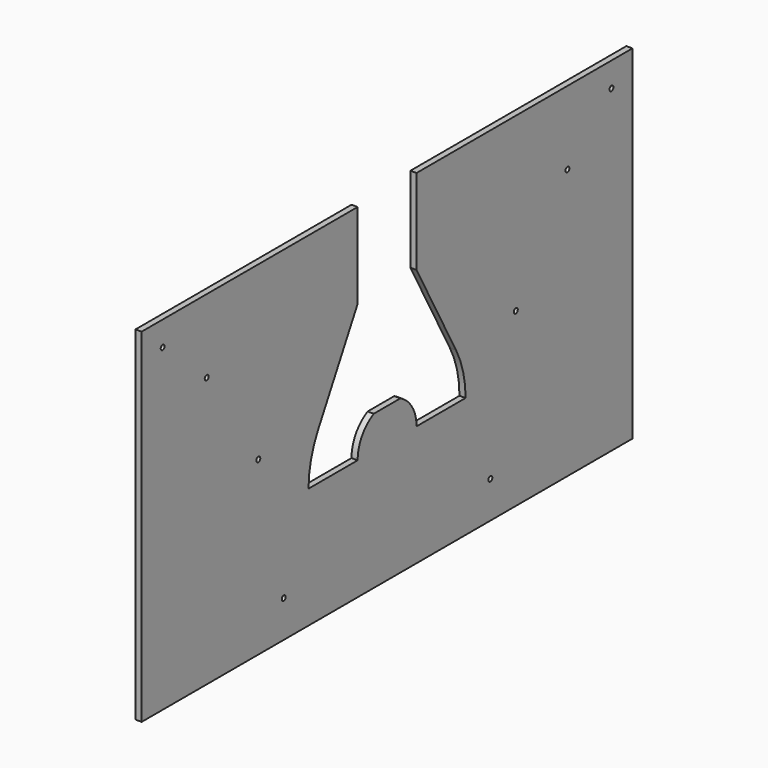
from build123d import *

# Parameters (mm, degrees)
F0_R     = 2.5527
F1_DEPTH = 6.35


with BuildPart() as f1:
    # F0 (on Right) → F1 (new body)
    with BuildSketch(Plane.YZ):
        with BuildLine():
            Line((-507.338013, 203.26635), (-507.338013, -152.33365))
            Line((-507.338013, -152.33365), (127.661987, -152.33365))
            Line((127.661987, -152.33365), (127.661987, 203.26635))
            Line((127.661987, 203.26635), (-151.738013, 203.26635))
            Line((-151.738013, 203.26635), (-151.738013, 114.932835))
            Line((-151.738013, 114.932835), (-100.606039, 21.017333))
            ThreePointArc((-100.606039, 21.017333), (-91.378558, -2.498882), (-88.238013, -27.56471))
            Line((-88.238013, -27.56471), (-151.738013, -27.56471))
            ThreePointArc((-151.738013, -27.56471), (-157.371875, -7.625807), (-172.607297, 6.41635))
            Line((-172.607297, 6.41635), (-207.068729, 6.41635))
            ThreePointArc((-207.068729, 6.41635), (-222.304151, -7.625807), (-227.938013, -27.56471))
            Line((-227.938013, -27.56471), (-291.438013, -27.56471))
            ThreePointArc((-291.438013, -27.56471), (-288.297468, -2.498882), (-279.069987, 21.017333))
            Line((-279.069987, 21.017333), (-227.938013, 114.932835))
            Line((-227.938013, 114.932835), (-227.938013, 203.26635))
            Line((-227.938013, 203.26635), (-507.338013, 203.26635))
        make_face()
        with Locations((-323.514741, -114.23365)):
            Circle(F0_R, mode=Mode.SUBTRACT)
        with Locations((-356.405224, 25.46635)):
            Circle(F0_R, mode=Mode.SUBTRACT)
        with Locations((-56.161285, -114.23365)):
            Circle(F0_R, mode=Mode.SUBTRACT)
        with Locations((-423.187935, 127.06635)):
            Circle(F0_R, mode=Mode.SUBTRACT)
        with Locations((-480.145002, 177.86635)):
            Circle(F0_R, mode=Mode.SUBTRACT)
        with Locations((-23.270802, 25.46635)):
            Circle(F0_R, mode=Mode.SUBTRACT)
        with Locations((43.511909, 127.06635)):
            Circle(F0_R, mode=Mode.SUBTRACT)
        with Locations((100.468975, 177.86635)):
            Circle(F0_R, mode=Mode.SUBTRACT)
    extrude(amount=F1_DEPTH)


solid = f1.part
